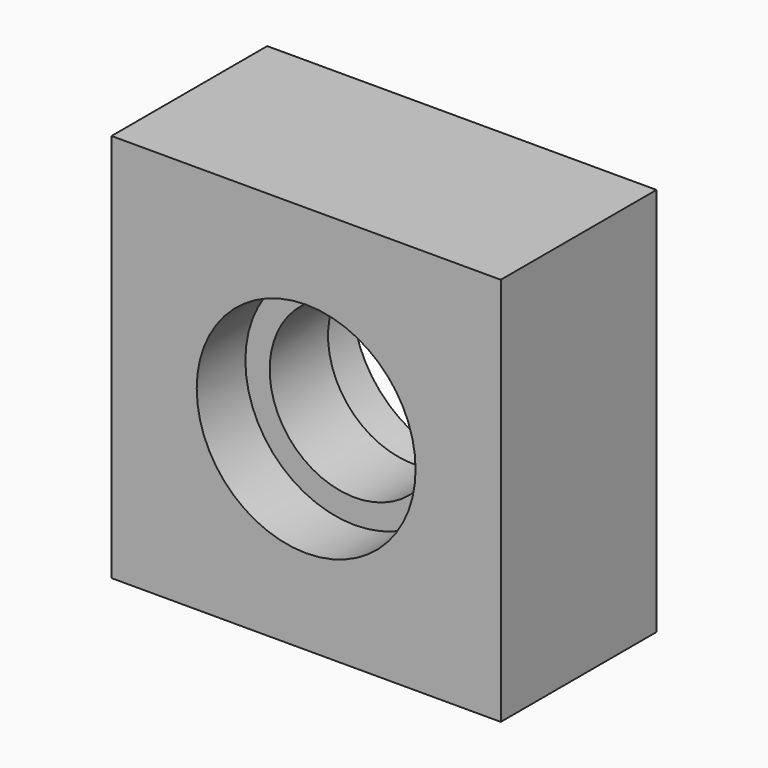
from build123d import *

# Parameters (mm, degrees)
F0_W     = 50.8
F0_H     = 50.8
F2_DEPTH = 25.4
F1_R     = 14.28115
F3_DEPTH = 7.9375
F4_R     = 14.28115
F5_DEPTH = 7.9375
F6_R     = 11.1125
F7_DEPTH = 25.4


with BuildPart() as f2:
    # F0 (on Front) → F2 (new body)
    with BuildSketch(Plane.XZ):
        with Locations((-25.4, 32.4630600569)):
            Rectangle(F0_W, F0_H)
    extrude(amount=F2_DEPTH)

    # F1 (on Front) → F3 (cut)
    with BuildSketch(Plane.XZ):
        with Locations((-25.4, 32.4630600569)):
            Circle(F1_R)
    extrude(amount=F3_DEPTH, mode=Mode.SUBTRACT)

    # F4 (on face) → F5 (cut)
    with BuildSketch(Plane.XZ.offset(25.4)):
        with Locations((-25.4, 32.4630600569)):
            Circle(F4_R)
    extrude(amount=-F5_DEPTH, mode=Mode.SUBTRACT)

    # F6 (on face) → F7 (cut)
    with BuildSketch(Plane.XZ.offset(17.4625)):
        with Locations((-25.4, 32.4630600569)):
            Circle(F6_R)
    extrude(amount=-F7_DEPTH, mode=Mode.SUBTRACT)


solid = f2.part
